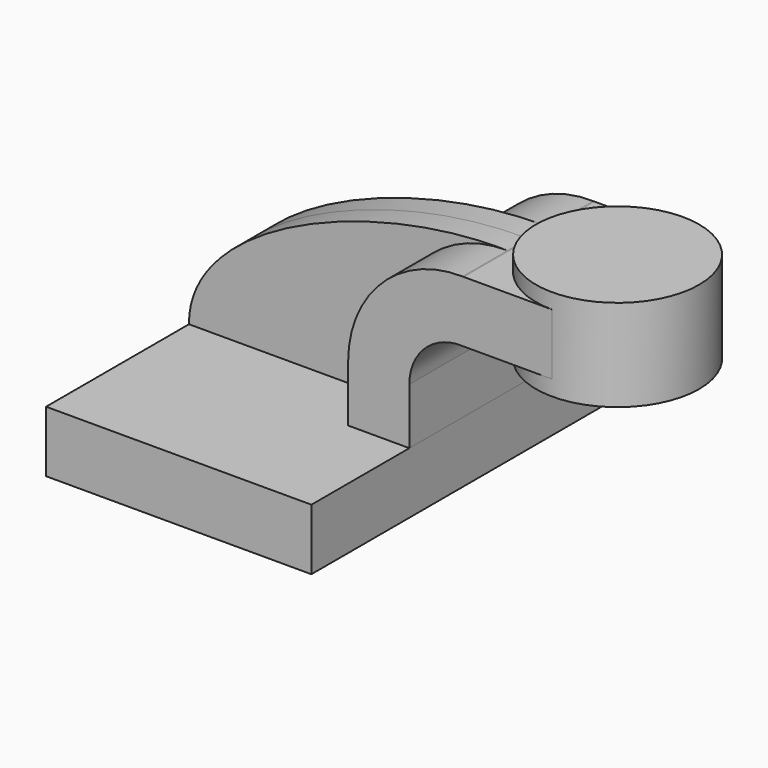
from build123d import *

# Parameters (mm, degrees)
F1_DEPTH = 63.5
F0_W     = 25.4
F0_H     = 19.05
F2_DEPTH = 25.4
F3_DEPTH = 7.9375


with BuildPart() as f1:
    # F0 (on Front) → F1 (new body, symmetric)
    with BuildSketch(Plane.XZ):
        Polygon((-41.275, -9.525), (41.275, -9.525), (41.275, 9.525), (22.225, 9.525), (-41.275, 9.525), align=None)
    extrude(amount=F1_DEPTH, both=True)


with BuildPart() as f2:
    # F0 (on Front) → F2 (new body, symmetric)
    with BuildSketch(Plane.XZ):
        with BuildLine():
            Line((22.225, 9.525), (41.275, 9.525))
            Line((41.275, 9.525), (41.275, 27.0149824788))
            ThreePointArc((41.275, 27.0149824788), (46.1695080545, 38.479903832), (57.834927135, 42.8752))
            Line((57.834927135, 42.8752), (60.325, 42.8752))
            Line((60.325, 42.8752), (60.325, 61.9252))
            Line((60.325, 61.9252), (58.1660401678, 61.9252))
            add(Edge.make_bspline(
                [(57.8174638201, 61.9336038297), (57.9337805874, 61.9309893035), (58.0499732377, 61.9281881475), (58.1660401678, 61.9252)],
                knots=[112.0895183663, 112.0895183663, 112.0895183663, 112.0895183663, 112.4024084693, 112.4024084693, 112.4024084693, 112.4024084693], degree=3))
            ThreePointArc((57.8174638201, 61.9336038297), (32.6914181617, 51.9455540619), (22.225, 27.0149824788))
            Line((22.225, 27.0149824788), (22.225, 9.525))
        make_face()
        with Locations((73.025, 52.4002)):
            Rectangle(F0_W, F0_H)
    extrude(amount=F2_DEPTH, both=True)

    # F0 (on Front) → F4 (revolve)
    with BuildSketch(Plane.XZ):
        Polygon((85.725, 61.9252), (85.725, 42.8752), (85.725, 38.1), (111.125, 38.1), (111.125, 66.675), (85.725, 66.675), align=None)
    revolve(axis=Axis((85.725, 0, 52.3875), (0, 0, 1)))


with BuildPart() as f3:
    # F0 (on Front) → F3 (new body, symmetric)
    with BuildSketch(Plane.XZ):
        with BuildLine():
            add(Edge.make_bspline(
                [(-41.275, 9.525), (-41.4496070283, 39.8556577568), (16.1482313953, 62.8702297587), (57.8174638201, 61.9336038297)],
                knots=[0, 0, 0, 0, 112.0895183663, 112.0895183663, 112.0895183663, 112.0895183663], degree=3))
            Line((-41.275, 9.525), (22.225, 9.525))
            Line((22.225, 9.525), (22.225, 27.0149824788))
            ThreePointArc((22.225, 27.0149824788), (32.6914181617, 51.9455540619), (57.8174638201, 61.9336038297))
        make_face()
    extrude(amount=F3_DEPTH, both=True)


solid = Compound([f1.part, f2.part, f3.part])
